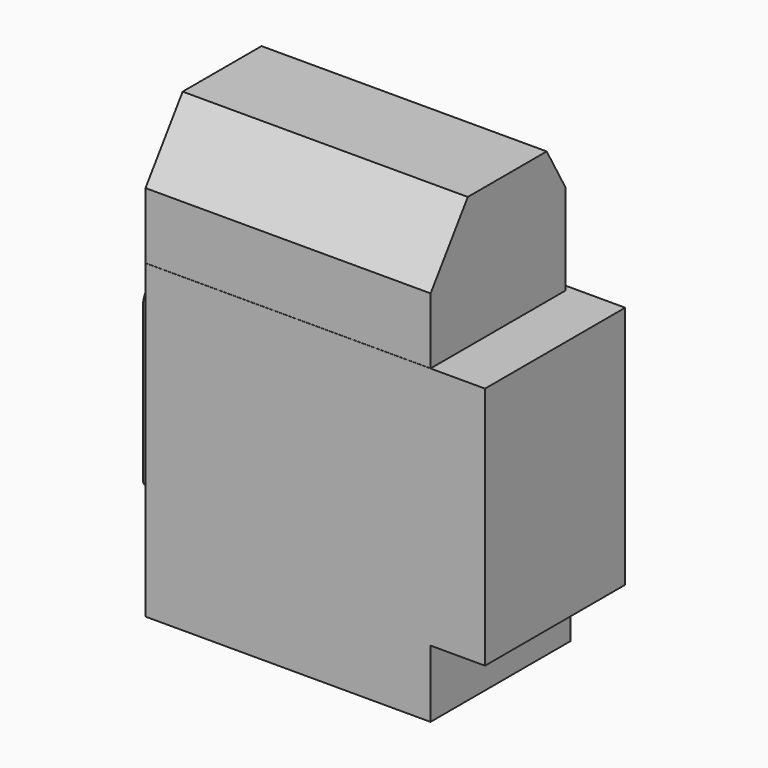
from build123d import *

# Parameters (mm, degrees)
F0_W      = 1502
F0_H      = 750
F1_DEPTH  = 1376
F3_R      = 78.7473915707
F5_W      = 750
F5_H      = 297.2130477428
F6_DEPTH  = 241
F8_DEPTH  = 1261
F9_DEPTH  = 25
F10_W     = 336.0105156898
F10_H     = 266.2700414658
F11_DEPTH = 10


with BuildPart() as f1:
    # F0 (on Top) → F1 (new body)
    with BuildSketch(Plane.XY):
        Rectangle(F0_W, F0_H)
    extrude(amount=F1_DEPTH)

    # F4: sweep along a path in F2
    with BuildLine(Plane.XZ) as f4_path:
        Line((-751, 1078.6715745926), (-851, 1078.6715745926))
        ThreePointArc((-851, 1078.6715745926), (-921.7106781187, 1049.3822527112), (-951, 978.6715745926))
        Line((-951, 978.6715745926), (-951, 308.378726244))
    # F3 (on face) → F4 (sweep)
    with BuildSketch(Plane(origin=(-751, 0, 0), x_dir=(0, -1, 0), z_dir=(-1, 0, 0))):
        with Locations((0, 1089.3139839172)):
            Circle(F3_R)
    sweep(path=f4_path.line)

    # F5 (on face) → F6 (cut)
    with BuildSketch(Plane.YZ.offset(751)):
        with Locations((0, 148.6065238714)):
            Rectangle(F5_W, F5_H)
    extrude(amount=-F6_DEPTH, mode=Mode.SUBTRACT)

    # F7 (on face) → F8 (join, through all)
    with BuildSketch(Plane.YZ.offset(510)):
        Polygon((-374.2722838136, 1668), (-374.2722838136, 1376), (372.3494112492, 1376), (372.3494112492, 1775.292634964), (267.1647369862, 1960), (-168.9238548279, 1960), align=None)
    extrude(amount=-F8_DEPTH)

    # F9 (add): a face of the model
    f9_faces = [f1.faces().sort_by_distance(p)[0] for p in [
        (-22.6360261364, 375, 707.3651464289),
    ]]
    extrude(f9_faces, amount=F9_DEPTH)

    # F10 (on face) → F11 (join)
    with BuildSketch(Plane(origin=(0, 400, 0), x_dir=(-1, 0, 0), z_dir=(0, 1, 0))):
        with Locations((42.0069694519, 1141.3634419441)):
            Rectangle(F10_W, F10_H)
    extrude(amount=F11_DEPTH)


solid = f1.part
